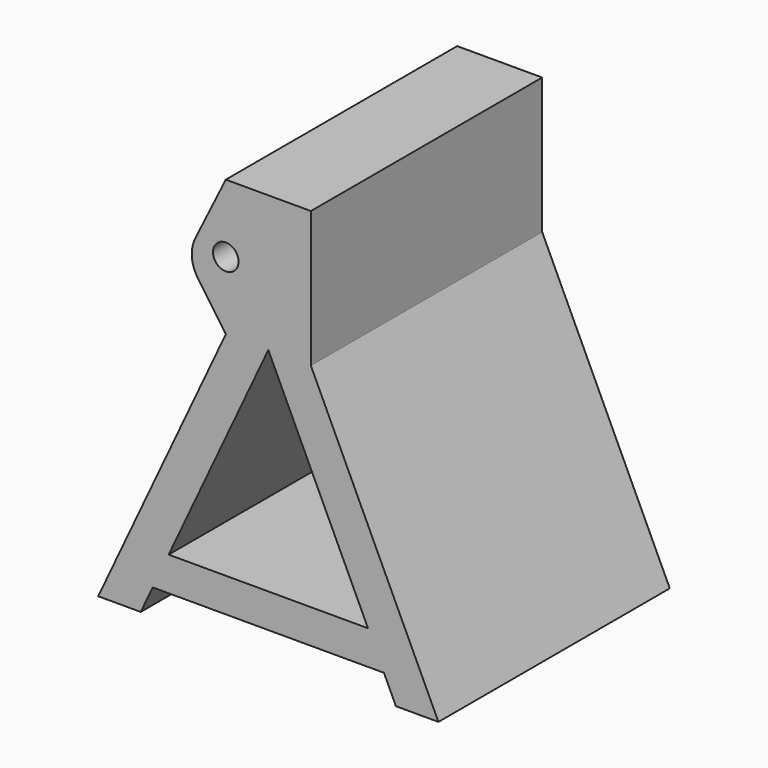
from build123d import *

# Parameters (mm, degrees)
F0_R     = 7.5
F1_DEPTH = 170


with BuildPart() as f1:
    # F0 (on Front) → F1 (new body)
    with BuildSketch(Plane.XZ):
        with BuildLine():
            Line((-14.698626, 40.360127), (10.301374, 40.360127))
            Line((10.301374, 40.360127), (10.301374, 120.360127))
            Line((10.301374, 120.360127), (-39.698626, 120.360127))
            Line((-39.698626, 120.360127), (-57.614754, 84.249016))
            ThreePointArc((-57.614754, 84.249016), (-59.644119, 73.884553), (-56.111662, 63.931556))
            Line((-56.111662, 63.931556), (-39.698626, 40.360127))
            Line((-39.698626, 40.360127), (-14.698626, 40.360127))
        make_face()
        with Locations((-39.700098, 80.357908)):
            Circle(F0_R, mode=Mode.SUBTRACT)
        Polygon((85.301374, -119.639873), (10.301374, 40.360127), (-14.698626, 40.360127), (43.895124, -84.639873), (53.270124, -104.639873), (60.301374, -119.639873), align=None)
        Polygon((-73.292376, -84.639873), (-14.698626, 40.360127), (-39.698626, 40.360127), (-114.698626, -119.639873), (-89.698626, -119.639873), (-82.667376, -104.639873), align=None)
        Polygon((43.895124, -84.639873), (-73.292376, -84.639873), (-82.667376, -104.639873), (53.270124, -104.639873), align=None)
    extrude(amount=F1_DEPTH)


solid = f1.part
